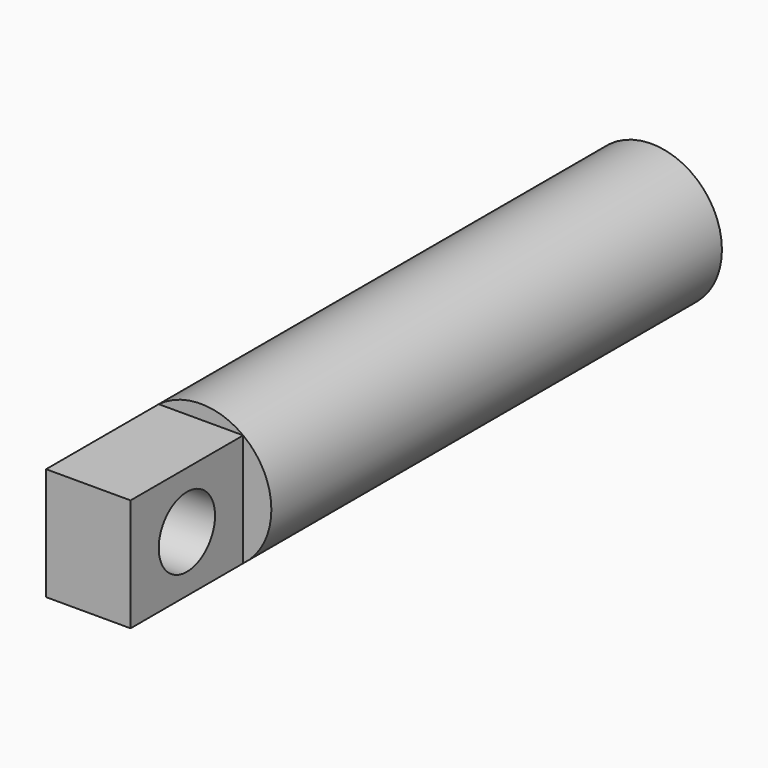
from build123d import *

# Parameters (mm, degrees)
F0_R     = 6.35
F1_DEPTH = 63.5
F3_DEPTH = 12.7
F4_R     = 3.175
F5_DEPTH = 25.4
F6_R     = 2.54
F7_DEPTH = 25.4


with BuildPart() as f1:
    # F0 (on Front) → F1 (new body)
    with BuildSketch(Plane.XZ):
        Circle(F0_R)
    extrude(amount=F1_DEPTH)

    # F2 (on face) → F3 (cut)
    with BuildSketch(Plane.XZ.offset(63.5)):
        with BuildLine():
            Line((0, 5.08), (3.81, 5.08))
            ThreePointArc((3.81, 5.08), (0, 6.35), (-3.81, 5.08))
            Line((-3.81, 5.08), (0, 5.08))
        make_face()
        with BuildLine():
            ThreePointArc((-3.81, -5.08), (0, -6.35), (3.81, -5.08))
            Line((3.81, -5.08), (-3.81, -5.08))
        make_face()
        with BuildLine():
            ThreePointArc((3.81, -5.08), (5.6796126628, -2.8398063314), (6.35, 0))
            ThreePointArc((6.35, 0), (5.6796126628, 2.8398063314), (3.81, 5.08))
            Line((3.81, 5.08), (3.81, -5.08))
        make_face()
        with BuildLine():
            Line((-3.81, -5.08), (-3.81, 5.08))
            ThreePointArc((-3.81, 5.08), (-6.35, 0), (-3.81, -5.08))
        make_face()
    extrude(amount=-F3_DEPTH, mode=Mode.SUBTRACT)

    # F4 (on face) → F5 (cut)
    with BuildSketch(Plane.YZ.offset(3.81)):
        with Locations((-57.15, 0)):
            Circle(F4_R)
    extrude(amount=-F5_DEPTH, mode=Mode.SUBTRACT)

    # F6 (on face) → F7 (cut)
    with BuildSketch(Plane(origin=(0, 0, 0), x_dir=(-1, 0, 0), z_dir=(0, 1, 0))):
        Circle(F6_R)
    extrude(amount=-F7_DEPTH, mode=Mode.SUBTRACT)


solid = f1.part
